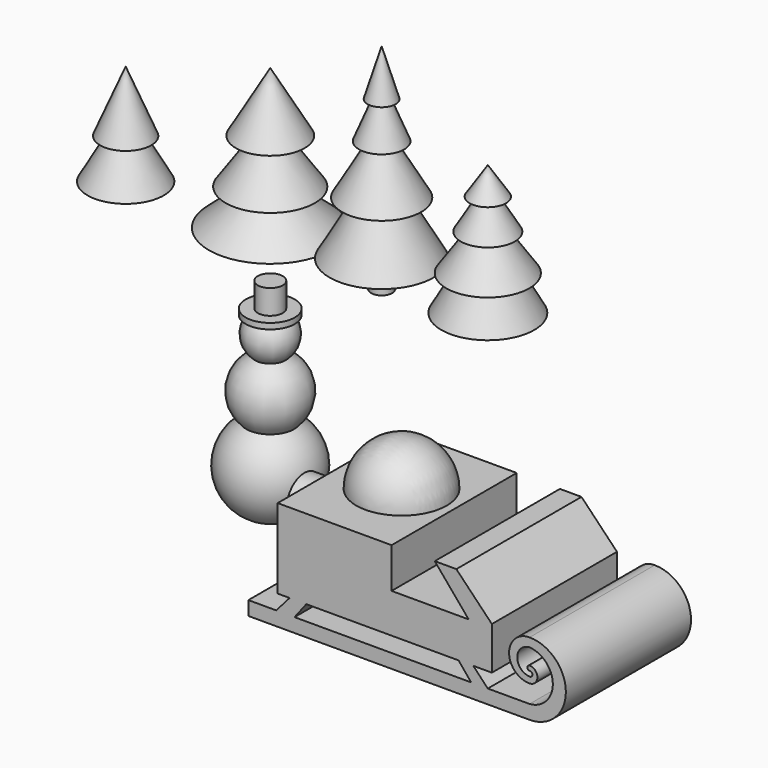
from build123d import *

# Parameters (mm, degrees)
F6_DEPTH  = 50.8
F9_R      = 7.192926
F10_DEPTH = 12.7
F9_R_2    = 10.334895
F11_DEPTH = 2.54


with BuildPart() as f1:
    # F0 (on Front) → F1 (revolve)
    with BuildSketch(Plane.XZ):
        Polygon((-2.40626, 0), (0, 0), (0, 51.528446), (-11.148732, 32.202981), (-2.86639, 34.388598), (-14.484676, 17.593849), (-3.096455, 20.584695), (-19.891204, 5.86053), (-2.40626, 5.86053), align=None)
    revolve(axis=Axis((0, 0, 25.764223), (0, 0, 1)))


with BuildPart() as f2:
    # F0 (on Front) → F2 (revolve)
    with BuildSketch(Plane.XZ):
        Polygon((-49.396396, 0), (-46.956189, 0), (-46.956189, 36.671411), (-55.252898, 16.824381), (-51.999286, 16.824381), (-59.31991, 3.809936), (-49.396396, 3.809936), align=None)
    revolve(axis=Axis((-46.956189, 0, 18.335706), (0, 0, 1)))


with BuildPart() as f3:
    # F0 (on Front) → F3 (revolve)
    with BuildSketch(Plane.XZ):
        Polygon((32.75729, 0), (36.173578, 0), (36.173578, 69.532886), (31.618524, 54.403592), (33.733372, 54.403592), (28.852955, 42.365231), (32.59461, 42.365231), (23.321817, 26.259856), (29.178316, 26.259856), (19.254804, 8.853034), (32.75729, 8.853034), align=None)
    revolve(axis=Axis((36.173578, 0, 34.766443), (0, 0, 1)))


with BuildPart() as f4:
    # F0 (on Front) → F4 (revolve)
    with BuildSketch(Plane.XZ):
        Polygon((67.763582, 0), (70.661858, 0), (70.661858, 46.757609), (64.77274, 37.72454), (68.568811, 38.989898), (61.896928, 27.716711), (66.153131, 28.982069), (57.180595, 15.86836), (61.896928, 15.86836), (55.570137, 4.48014), (67.763582, 4.48014), align=None)
    revolve(axis=Axis((70.661858, 0, 23.378804), (0, 0, 1)))


with BuildPart() as f5:
    # F0 (on Front) → F5 (revolve)
    with BuildSketch(Plane.XZ):
        with BuildLine():
            ThreePointArc((-4.985761, -30.441663), (-11.349072, -39.079914), (-7.791513, -49.201914))
            ThreePointArc((-7.791513, -49.201914), (-14.434433, -66.054626), (0, -76.999463))
            Line((0, -76.999463), (0, -9.30676))
            Line((0, -9.30676), (-4.061945, -9.30676))
            Line((-4.061945, -9.30676), (-4.061945, -17.237336))
            Line((-4.061945, -17.237336), (-7.972837, -17.237336))
            Line((-7.972837, -17.237336), (-7.972837, -19.110702))
            Line((-7.972837, -19.110702), (-5.745252, -19.110702))
            ThreePointArc((-5.745252, -19.110702), (-7.80297, -24.939561), (-4.985761, -30.441663))
        make_face()
    revolve(axis=Axis((0, 0, -43.153111), (0, 0, -1)))


with BuildPart() as f6:
    # F0 (on Front) → F6 (new body)
    with BuildSketch(Plane.XZ):
        Polygon((80.041923, -38.2463), (43.041866, -38.2463), (43.041866, -64.11127), (46.929028, -64.11127), (52.34427, -64.11127), (101.791687, -64.11127), (106.58551, -64.11127), (112.61335, -64.11127), (112.61335, -50.192329), (101.081491, -38.2463), (94.068304, -38.2463), (105.076343, -51.324509), (80.041923, -51.324509), align=None)
        Polygon((52.34427, -64.11127), (46.929028, -64.11127), (42.579073, -69.073118), (48.526965, -69.073118), align=None)
        Polygon((106.58551, -64.11127), (101.791687, -64.11127), (105.875313, -69.073118), (111.290559, -69.073118), align=None)
        with BuildLine():
            Line((48.526965, -69.073118), (42.579073, -69.073118))
            Line((42.579073, -69.073118), (33.54045, -69.073118))
            Line((33.54045, -69.073118), (33.54045, -73.612683))
            Line((33.54045, -73.612683), (124.859616, -73.612683))
            ThreePointArc((124.859616, -73.612683), (136.648191, -61.824108), (124.859616, -50.035533))
            ThreePointArc((124.859616, -50.035533), (118.213668, -56.615708), (124.859616, -63.195883))
            ThreePointArc((124.859616, -63.195883), (127.409707, -60.645792), (124.859616, -58.095701))
            ThreePointArc((124.859616, -58.095701), (124.146158, -58.858216), (124.859616, -59.620731))
            ThreePointArc((124.859616, -59.620731), (125.788892, -60.419701), (124.859616, -61.218672))
            ThreePointArc((124.859616, -61.218672), (120.859292, -57.048604), (124.859616, -52.878536))
            ThreePointArc((124.859616, -52.878536), (132.408041, -60.975827), (124.859616, -69.073118))
            Line((124.859616, -69.073118), (111.290559, -69.073118))
            Line((111.290559, -69.073118), (105.875313, -69.073118))
            Line((105.875313, -69.073118), (48.526965, -69.073118))
        make_face()
    extrude(amount=F6_DEPTH)

    # F7 (on face) → F8 (revolve)
    with BuildSketch(Plane.XY.offset(-38.2463)):
        with BuildLine():
            Line((62.705472, -39.779241), (62.705472, -10.399208))
            ThreePointArc((62.705472, -10.399208), (48.015456, -25.089225), (62.705472, -39.779241))
        make_face()
    revolve(axis=Axis((62.705472, -25.089225, -38.2463), (0, 1, 0)))

    # F9 (on face) → F10 (join)
    with BuildSketch(Plane(origin=(43.041866, 0, 0), x_dir=(0, -1, 0), z_dir=(-1, 0, 0))):
        with Locations((24.095973, -51.803336)):
            Circle(F9_R)
    extrude(amount=F10_DEPTH)

    # F9 (on face) → F11 (join)
    with BuildSketch(Plane(origin=(43.041866, 0, 0), x_dir=(0, -1, 0), z_dir=(-1, 0, 0))):
        with Locations((24.095973, -51.803336)):
            Circle(F9_R_2)
        with Locations((24.095973, -51.803336)):
            Circle(F9_R, mode=Mode.SUBTRACT)
    extrude(amount=F11_DEPTH)


solid = Compound([f1.part, f2.part, f3.part, f4.part, f5.part, f6.part])
